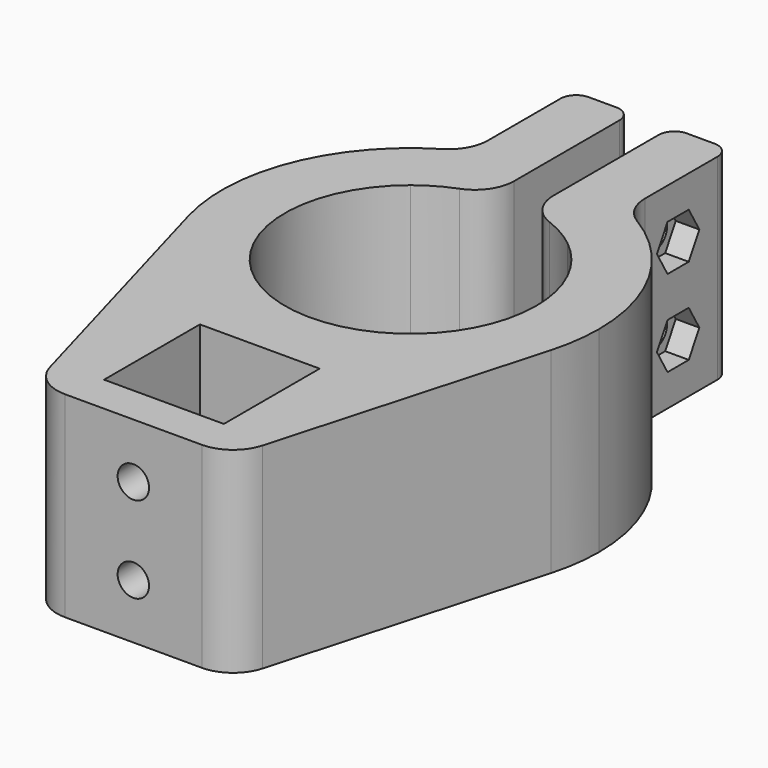
from build123d import *

# Parameters (mm, degrees)
F1_DEPTH = 25
F3_R     = 2
F4_DEPTH = 10
F2_R     = 2
F5_DEPTH = 50
F6_R     = 5
F7_R     = 2
F8_DEPTH = 3


with BuildPart() as f1:
    # F0 (on Top) → F1 (new body)
    with BuildSketch(Plane.XY):
        with BuildLine():
            ThreePointArc((10, 12.4899959968), (14.4222051019, 6.9282032303), (16, 0))
            ThreePointArc((16, 0), (-6.9282032303, -14.4222051019), (-10, 12.4899959968))
            Line((-10, 12.4899959968), (-10, 21.8174242293))
            ThreePointArc((-10, 21.8174242293), (-21.7833717136, 10.0739623181), (-23.1002589039, -6.5098416703))
            ThreePointArc((-23.1002589039, -6.5098416703), (-19.1230344611, -14.5020534064), (-12.5, -20.4878012485))
            Line((-12.5, -20.4878012485), (-12.5, -19.125))
            Line((-12.5, -19.125), (12.5, -19.125))
            Line((12.5, -19.125), (12.5, -20.4878012485))
            ThreePointArc((12.5, -20.4878012485), (19.1230344611, -14.5020534064), (23.1002589039, -6.5098416703))
            ThreePointArc((23.1002589039, -6.5098416703), (23.7740006488, -3.2858626193), (24, 0))
            ThreePointArc((24, 0), (20.1990098767, 12.9614813968), (10, 21.8174242293))
            Line((10, 21.8174242293), (10, 12.4899959968))
        make_face()
        with BuildLine():
            Line((-10, 21.8174242293), (-10, 12.4899959968))
            ThreePointArc((-10, 12.4899959968), (-6.4658560997, 14.635323874), (-2.5, 15.8034806293))
            Line((-2.5, 15.8034806293), (-2.5, 23.8694365246))
            ThreePointArc((-2.5, 23.8694365246), (-6.3336552334, 23.1491859767), (-10, 21.8174242293))
        make_face()
        with BuildLine():
            Line((-10, 38.3634492755), (-10, 21.8174242293))
            ThreePointArc((-10, 21.8174242293), (-6.3336552334, 23.1491859767), (-2.5, 23.8694365246))
            Line((-2.5, 23.8694365246), (-2.5, 38.3634492755))
            Line((-2.5, 38.3634492755), (-10, 38.3634492755))
        make_face()
        with BuildLine():
            ThreePointArc((2.5, 15.8034806293), (6.4658560997, 14.635323874), (10, 12.4899959968))
            Line((10, 12.4899959968), (10, 21.8174242293))
            ThreePointArc((10, 21.8174242293), (6.3336552334, 23.1491859767), (2.5, 23.8694365246))
            Line((2.5, 23.8694365246), (2.5, 15.8034806293))
        make_face()
        with BuildLine():
            ThreePointArc((2.5, 23.8694365246), (6.3336552334, 23.1491859767), (10, 21.8174242293))
            Line((10, 21.8174242293), (10, 38.3634492755))
            Line((10, 38.3634492755), (2.5, 38.3634492755))
            Line((2.5, 38.3634492755), (2.5, 23.8694365246))
        make_face()
        with BuildLine():
            Line((-12.5, -19.125), (-12.5, -20.4878012485))
            ThreePointArc((-12.5, -20.4878012485), (-6.492024724, -23.1052724499), (0, -24))
            ThreePointArc((0, -24), (6.492024724, -23.1052724499), (12.5, -20.4878012485))
            Line((12.5, -20.4878012485), (12.5, -19.125))
            Line((12.5, -19.125), (-12.5, -19.125))
        make_face()
        with BuildLine():
            ThreePointArc((-12.5, -20.4878012485), (-19.1230344611, -14.5020534064), (-23.1002589039, -6.5098416703))
            Line((-23.1002589039, -6.5098416703), (-12.5, -44.125))
            Line((-12.5, -44.125), (-12.5, -20.4878012485))
        make_face()
        with BuildLine():
            ThreePointArc((0, -24), (-6.492024724, -23.1052724499), (-12.5, -20.4878012485))
            Line((-12.5, -20.4878012485), (-12.5, -44.125))
            Line((-12.5, -44.125), (12.5, -44.125))
            Line((12.5, -44.125), (12.5, -20.4878012485))
            ThreePointArc((12.5, -20.4878012485), (6.492024724, -23.1052724499), (0, -24))
        make_face()
        Polygon((-7.625, -24), (0, -24), (7.625, -24), (7.625, -39.25), (-7.625, -39.25), align=None, mode=Mode.SUBTRACT)
        with BuildLine():
            Line((12.5, -44.125), (23.1002589039, -6.5098416703))
            ThreePointArc((23.1002589039, -6.5098416703), (19.1230344611, -14.5020534064), (12.5, -20.4878012485))
            Line((12.5, -20.4878012485), (12.5, -44.125))
        make_face()
    extrude(amount=F1_DEPTH)

    # F3 (on face) → F4 (cut)
    with BuildSketch(Plane.XZ.offset(44.125)):
        with Locations((0, 7)):
            Circle(F3_R)
        with Locations((0, 18)):
            Circle(F3_R)
    extrude(amount=-F4_DEPTH, mode=Mode.SUBTRACT)

    # F2 (on face) → F5 (cut)
    with BuildSketch(Plane.YZ.offset(10)):
        with Locations((30.0904367524, 18)):
            Circle(F2_R)
        with Locations((30.0904367524, 7)):
            Circle(F2_R)
    extrude(amount=-F5_DEPTH, mode=Mode.SUBTRACT)

    # F6
    f6_edges = [f1.edges().sort_by_distance(p)[0] for p in [
        (12.5, -44.125, 12.5),
        (-12.5, -44.125, 12.5),
        (10, 21.817424, 12.5),
        (-10, 21.817424, 12.5),
        (-2.5, 15.803481, 12.5),
        (2.5, 15.803481, 12.5),
    ]]
    fillet(f6_edges, radius=F6_R)

    # F7
    f7_edges = [f1.edges().sort_by_distance(p)[0] for p in [
        (10, 38.363449, 12.5),
        (-10, 38.363449, 12.5),
        (-2.5, 38.363449, 12.5),
        (2.5, 38.363449, 12.5),
    ]]
    fillet(f7_edges, radius=F7_R)

    # F2 (on face) → F8 (cut)
    with BuildSketch(Plane.YZ.offset(10)):
        Polygon((33.4679358271, 18), (31.7791862898, 20.925), (28.401687215, 20.925), (26.7129376776, 18), (28.401687215, 15.075), (31.7791862898, 15.075), align=None)
        with Locations((30.0904367524, 18)):
            Circle(F2_R, mode=Mode.SUBTRACT)
        Polygon((33.4679337645, 7.0037327168), (31.7759526309, 9.9268645721), (28.3984556188, 9.9231318553), (26.7129397403, 6.9962672832), (28.4049208739, 4.0731354279), (31.782417886, 4.0768681447), align=None)
        with Locations((30.0904367524, 7)):
            Circle(F2_R, mode=Mode.SUBTRACT)
    extrude(amount=-F8_DEPTH, mode=Mode.SUBTRACT)


solid = f1.part
